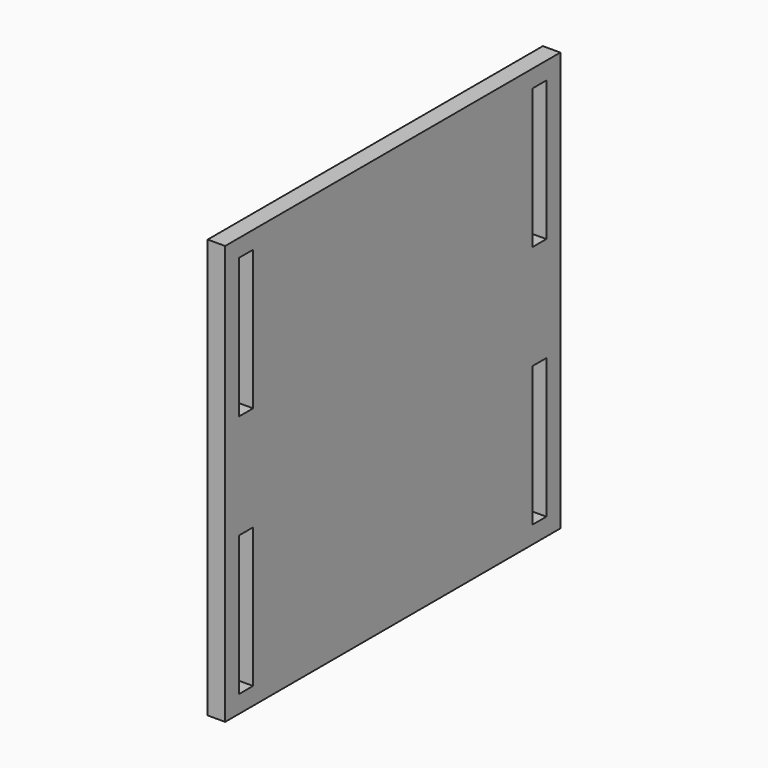
from build123d import *

# Parameters (mm, degrees)
F0_W     = 152.4
F0_H     = 152.4
F1_DEPTH = 6.35
F2_W     = 6.35
F2_H     = 50.8
F3_DEPTH = 25.4


with BuildPart() as f1:
    # F0 (on Right) → F1 (new body)
    with BuildSketch(Plane.YZ):
        Rectangle(F0_W, F0_H)
    extrude(amount=F1_DEPTH)

    # F2 (on face) → F3 (cut)
    with BuildSketch(Plane.YZ.offset(6.35)):
        with Locations((-66.675, 44.45)):
            Rectangle(F2_W, F2_H)
        with Locations((66.675, 44.45)):
            Rectangle(F2_W, F2_H)
        with Locations((-66.675, -44.45)):
            Rectangle(F2_W, F2_H)
        with Locations((66.675, -44.45)):
            Rectangle(F2_W, F2_H)
    extrude(amount=-F3_DEPTH, mode=Mode.SUBTRACT)


solid = f1.part
